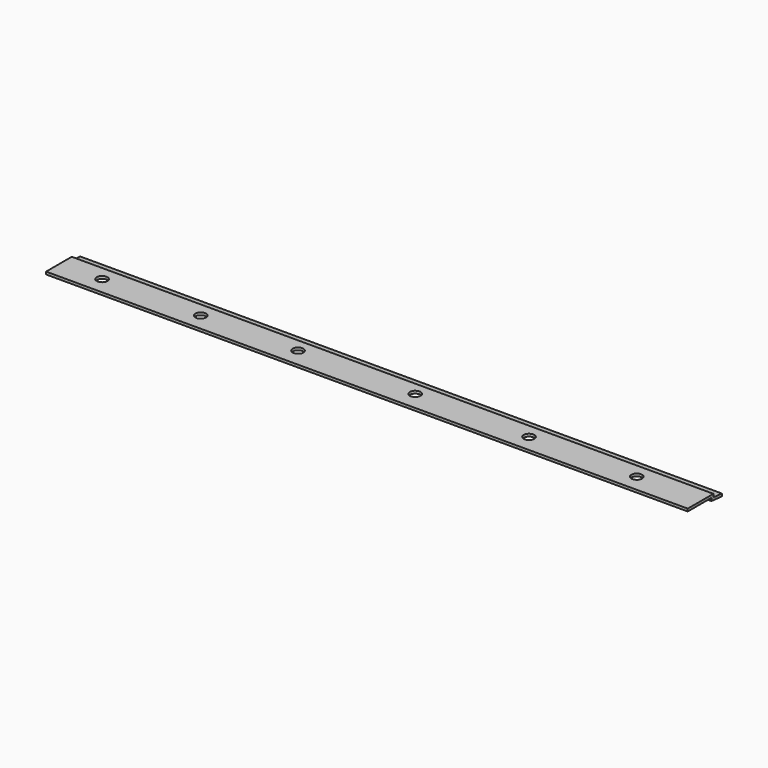
from build123d import *

# Parameters (mm, degrees)
F1_DEPTH = 381
F3_D     = 6.35


with BuildPart() as f1:
    # F0 (on Right) → F1 (new body)
    with BuildSketch(Plane.YZ):
        Polygon((0, 1.524), (0, 0), (17.526, 0), (17.526, -1.691508), (25.373005, -2.417385), (25.373005, -0.893385), (19.05, -0.308484), (19.05, 1.524), align=None)
    extrude(amount=F1_DEPTH)

    # F3 (through all)
    with Locations(Plane.XY.offset(1.524)):
        with Locations((83.519287, 10.328744), (140.793517, 11.030741), (210.36306, 11.030741), (278.541923, 10.284306), (342.505813, 10.284306), (24.989866, 10.328744)):
            Hole(F3_D / 2)


solid = f1.part
